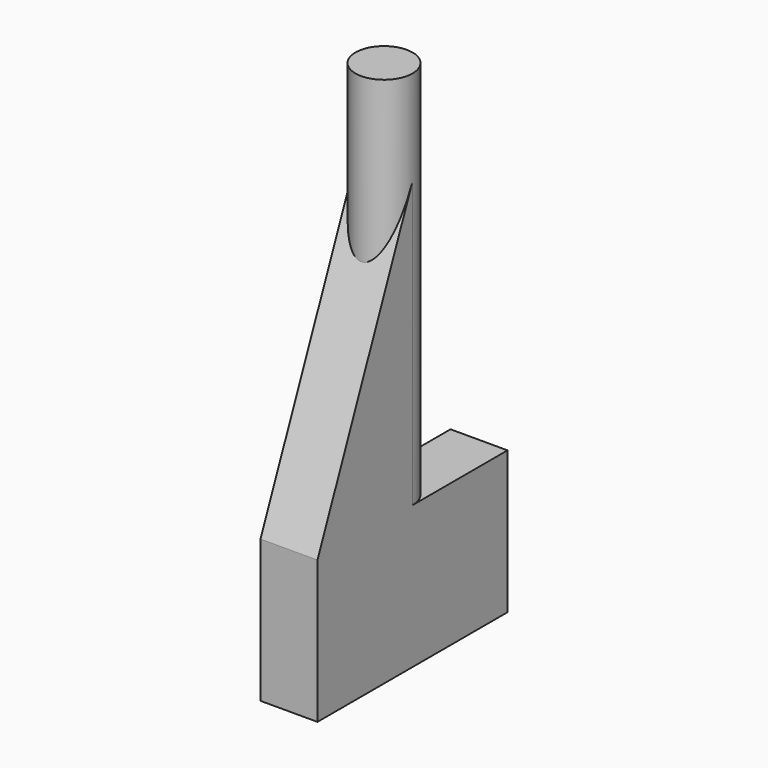
from build123d import *

# Parameters (mm, degrees)
F1_DEPTH = 25
F2_DEPTH = 65
F4_DEPTH = 3
F5_DEPTH = 10


with BuildPart() as f1:
    # F0 (on Top) → F1 (new body)
    with BuildSketch(Plane.XY):
        with BuildLine():
            ThreePointArc((-3, 0), (0, 3), (3, 0))
            Line((3, 0), (3, 12.5))
            Line((3, 12.5), (-3, 12.5))
            Line((-3, 12.5), (-3, 0))
        make_face()
    extrude(amount=F1_DEPTH)



with BuildPart() as f1b:
    # F0 (on Top) → F1, piece 2 (new body)
    with BuildSketch(Plane.XY):
        with BuildLine():
            Line((3, -12.5), (3, 0))
            ThreePointArc((3, 0), (0, -3), (-3, 0))
            Line((-3, 0), (-3, -12.5))
            Line((-3, -12.5), (3, -12.5))
        make_face()
    extrude(amount=F1_DEPTH)


with BuildPart() as f1_1:
    add(f1.part)

    add(f1b.part)  # F2 merges F1b
    # F0 (on Top) → F2 (join)
    with BuildSketch(Plane.XY):
        with BuildLine():
            ThreePointArc((-3, 0), (0, -3), (3, 0))
            ThreePointArc((3, 0), (0, 3), (-3, 0))
        make_face()
    extrude(amount=F2_DEPTH)

    # F3 (on Right) → F4 (join, symmetric)
    with BuildSketch(Plane.YZ):
        Polygon((-12.5, 25), (0, 25), (0, 55), align=None)
    extrude(amount=F4_DEPTH, both=True)

    # F0 (on Top) → F5 (cut)
    with BuildSketch(Plane.XY):
        with BuildLine():
            ThreePointArc((-3, 0), (0, 3), (3, 0))
            Line((3, 0), (3, 12.5))
            Line((3, 12.5), (-3, 12.5))
            Line((-3, 12.5), (-3, 0))
        make_face()
        with BuildLine():
            ThreePointArc((-3, 0), (0, -3), (3, 0))
            ThreePointArc((3, 0), (0, 3), (-3, 0))
        make_face()
        with BuildLine():
            Line((3, -12.5), (3, 0))
            ThreePointArc((3, 0), (0, -3), (-3, 0))
            Line((-3, 0), (-3, -12.5))
            Line((-3, -12.5), (3, -12.5))
        make_face()
    extrude(amount=F5_DEPTH, mode=Mode.SUBTRACT)


solid = f1_1.part
